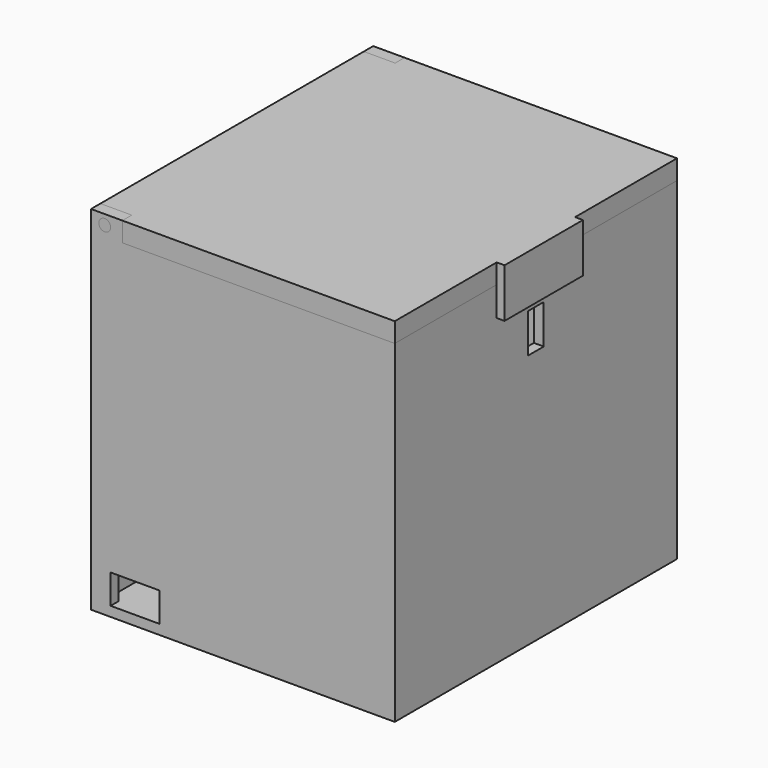
from build123d import *

# Parameters (mm, degrees)
CYLINDER001_R     = 3
CYLINDER001_DEPTH = 148
BOX007_W          = 16
BOX007_H          = 6
BOX007_DEPTH      = 10
CYLINDER_R        = 3
CYLINDER_DEPTH    = 148
BOX006_W          = 16
BOX006_H          = 6
BOX006_DEPTH      = 10
BOX005_W          = 12
BOX005_H          = 10
BOX005_DEPTH      = 20
BOX003_W          = 25
BOX003_H          = 25
BOX003_DEPTH      = 15
BOX001_W          = 145
BOX001_H          = 170
BOX001_DEPTH      = 200
BOX_W             = 155
BOX_H             = 180
BOX_DEPTH         = 170
BOX004_W          = 4
BOX004_H          = 50
BOX004_DEPTH      = 25
BOX002_W          = 155
BOX002_H          = 180
BOX002_DEPTH      = 10
CYLINDER003_R     = 3
CYLINDER003_DEPTH = 148
BOX013_W          = 16
BOX013_H          = 6
BOX013_DEPTH      = 10
CYLINDER002_R     = 3
CYLINDER002_DEPTH = 148
BOX012_W          = 16
BOX012_H          = 6
BOX012_DEPTH      = 10
BOX011_W          = 12
BOX011_H          = 10
BOX011_DEPTH      = 20
BOX010_W          = 25
BOX010_H          = 25
BOX010_DEPTH      = 15
BOX009_W          = 145
BOX009_H          = 170
BOX009_DEPTH      = 200
BOX008_W          = 155
BOX008_H          = 180
BOX008_DEPTH      = 170


with BuildPart() as cylinder001:
    # Cylinder001 → Cylinder001 (new body)
    with BuildSketch(Plane(origin=(7, 139, 175), x_dir=(1, 0, 0), z_dir=(0, -1, 0))):
        Circle(CYLINDER001_R)
    extrude(amount=CYLINDER001_DEPTH)


with BuildPart() as obj1:
    # Box007 → Box007 (new body)
    with BuildSketch(Plane.XY.offset(170)):
        with Locations((8, 3)):
            Rectangle(BOX007_W, BOX007_H)
    extrude(amount=BOX007_DEPTH)

    # Cut004: cut Cylinder001
    add(cylinder001.part, mode=Mode.SUBTRACT)


with BuildPart() as cylinder:
    # Cylinder → Cylinder (new body)
    with BuildSketch(Plane(origin=(7, 192, 175), x_dir=(1, 0, 0), z_dir=(0, -1, 0))):
        Circle(CYLINDER_R)
    extrude(amount=CYLINDER_DEPTH)


with BuildPart() as obj2:
    # Box006 → Box006 (new body)
    with BuildSketch(Plane(origin=(0, 174, 170), x_dir=(1, 0, 0), z_dir=(0, 0, 1))):
        with Locations((8, 3)):
            Rectangle(BOX006_W, BOX006_H)
    extrude(amount=BOX006_DEPTH)

    # Cut003: cut Cylinder
    add(cylinder.part, mode=Mode.SUBTRACT)


with BuildPart() as cube003:
    # Box005 → Box005 (new body)
    with BuildSketch(Plane(origin=(146, 85, 130), x_dir=(1, 0, 0), z_dir=(0, 0, 1))):
        with Locations((6, 5)):
            Rectangle(BOX005_W, BOX005_H)
    extrude(amount=BOX005_DEPTH)


with BuildPart() as agujero:
    # Box003 → Box003 (new body)
    with BuildSketch(Plane(origin=(10, -7, 5), x_dir=(1, 0, 0), z_dir=(0, 0, 1))):
        with Locations((12.5, 12.5)):
            Rectangle(BOX003_W, BOX003_H)
    extrude(amount=BOX003_DEPTH)


with BuildPart() as cube001:
    # Box001 → Box001 (new body)
    with BuildSketch(Plane(origin=(5, 5, 5), x_dir=(1, 0, 0), z_dir=(0, 0, 1))):
        with Locations((72.5, 85)):
            Rectangle(BOX001_W, BOX001_H)
    extrude(amount=BOX001_DEPTH)


with BuildPart() as fusion002:
    # Box → Box (new body)
    with BuildSketch(Plane.XY):
        with Locations((77.5, 90)):
            Rectangle(BOX_W, BOX_H)
    extrude(amount=BOX_DEPTH)

    # Cut: cut Cube001
    add(cube001.part, mode=Mode.SUBTRACT)

    # Cut001: cut Agujero
    add(agujero.part, mode=Mode.SUBTRACT)

    # Cut002: cut Cube003
    add(cube003.part, mode=Mode.SUBTRACT)

    # Fusion001: union obj2
    add(obj2.part)

    # Fusion002: union obj1
    add(obj1.part)


with BuildPart() as cube002:
    # Box004 → Box004 (new body)
    with BuildSketch(Plane(origin=(155, 65, 155), x_dir=(1, 0, 0), z_dir=(0, 0, 1))):
        with Locations((2, 25)):
            Rectangle(BOX004_W, BOX004_H)
    extrude(amount=BOX004_DEPTH)


with BuildPart() as tapa:
    # Box002 → Box002 (new body)
    with BuildSketch(Plane.XY.offset(170)):
        with Locations((77.5, 90)):
            Rectangle(BOX002_W, BOX002_H)
    extrude(amount=BOX002_DEPTH)

    # Fusion: union Cube002
    add(cube002.part)

    # Cut005: cut Fusion002
    add(fusion002.part, mode=Mode.SUBTRACT)


with BuildPart() as cylinder003:
    # Cylinder003 → Cylinder003 (new body)
    with BuildSketch(Plane(origin=(7, 139, 175), x_dir=(1, 0, 0), z_dir=(0, -1, 0))):
        Circle(CYLINDER003_R)
    extrude(amount=CYLINDER003_DEPTH)


with BuildPart() as obj3:
    # Box013 → Box013 (new body)
    with BuildSketch(Plane.XY.offset(170)):
        with Locations((8, 3)):
            Rectangle(BOX013_W, BOX013_H)
    extrude(amount=BOX013_DEPTH)

    # Cut010: cut Cylinder003
    add(cylinder003.part, mode=Mode.SUBTRACT)


with BuildPart() as cylinder002:
    # Cylinder002 → Cylinder002 (new body)
    with BuildSketch(Plane(origin=(7, 192, 175), x_dir=(1, 0, 0), z_dir=(0, -1, 0))):
        Circle(CYLINDER002_R)
    extrude(amount=CYLINDER002_DEPTH)


with BuildPart() as obj4:
    # Box012 → Box012 (new body)
    with BuildSketch(Plane(origin=(0, 174, 170), x_dir=(1, 0, 0), z_dir=(0, 0, 1))):
        with Locations((8, 3)):
            Rectangle(BOX012_W, BOX012_H)
    extrude(amount=BOX012_DEPTH)

    # Cut009: cut Cylinder002
    add(cylinder002.part, mode=Mode.SUBTRACT)


with BuildPart() as cube006:
    # Box011 → Box011 (new body)
    with BuildSketch(Plane(origin=(146, 85, 130), x_dir=(1, 0, 0), z_dir=(0, 0, 1))):
        with Locations((6, 5)):
            Rectangle(BOX011_W, BOX011_H)
    extrude(amount=BOX011_DEPTH)


with BuildPart() as agujero001:
    # Box010 → Box010 (new body)
    with BuildSketch(Plane(origin=(10, -7, 5), x_dir=(1, 0, 0), z_dir=(0, 0, 1))):
        with Locations((12.5, 12.5)):
            Rectangle(BOX010_W, BOX010_H)
    extrude(amount=BOX010_DEPTH)


with BuildPart() as cube005:
    # Box009 → Box009 (new body)
    with BuildSketch(Plane(origin=(5, 5, 5), x_dir=(1, 0, 0), z_dir=(0, 0, 1))):
        with Locations((72.5, 85)):
            Rectangle(BOX009_W, BOX009_H)
    extrude(amount=BOX009_DEPTH)


with BuildPart() as caja002:
    # Box008 → Box008 (new body)
    with BuildSketch(Plane.XY):
        with Locations((77.5, 90)):
            Rectangle(BOX008_W, BOX008_H)
    extrude(amount=BOX008_DEPTH)

    # Cut006: cut Cube005
    add(cube005.part, mode=Mode.SUBTRACT)

    # Cut007: cut Agujero001
    add(agujero001.part, mode=Mode.SUBTRACT)

    # Cut008: cut Cube006
    add(cube006.part, mode=Mode.SUBTRACT)

    # Fusion003: union obj4
    add(obj4.part)

    # Fusion004: union obj3
    add(obj3.part)


solid = Compound([tapa.part, caja002.part])
